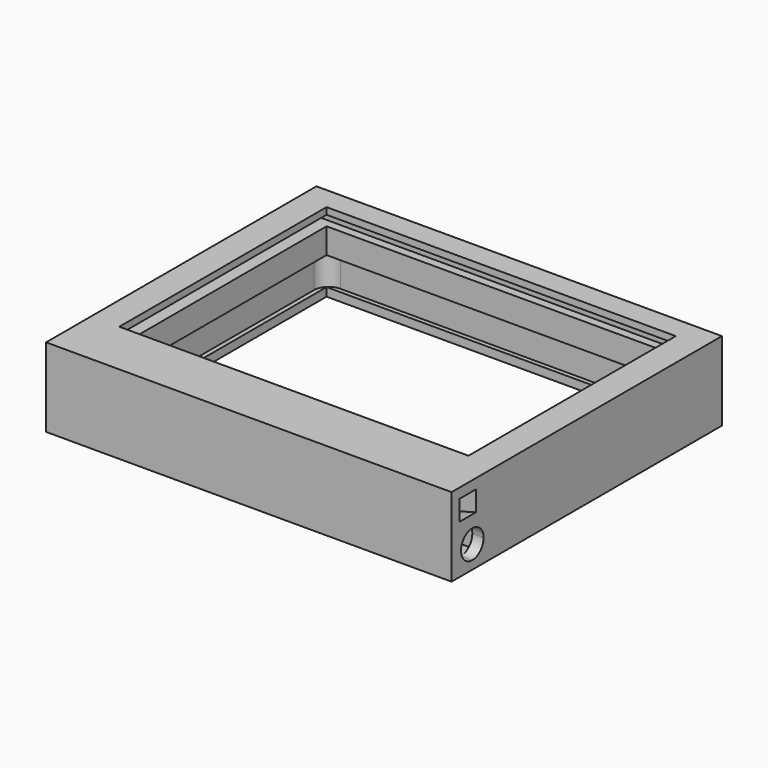
from build123d import *

# Parameters (mm, degrees)
F0_W      = 180
F0_H      = 150
F0_W_2    = 155
F0_H_2    = 115
F1_DEPTH  = 35
F2_W      = 122.5
F2_H      = 4.5
F3_DEPTH  = 170
F5_W      = 159
F5_H      = 119
F6_DEPTH  = 6.25
F7_R      = 6.5
F9_DEPTH  = 6.25
F11_DEPTH = 9
F12_R     = 25
F14_DEPTH = 5
F15_W     = 20
F15_H     = 12.5
F16_DEPTH = 4.5


with BuildPart() as f1:
    # F0 (on Top) → F1 (new body)
    with BuildSketch(Plane.XY):
        with Locations((90, 75)):
            Rectangle(F0_W, F0_H)
        with Locations((90, 82.5)):
            Rectangle(F0_W_2, F0_H_2, mode=Mode.SUBTRACT)
    extrude(amount=F1_DEPTH)

    # F2 (on face) → F3 (cut)
    with BuildSketch(Plane(origin=(0, 0, 0), x_dir=(0, -1, 0), z_dir=(-1, 0, 0))):
        with Locations((-82.5, 29.75)):
            Rectangle(F2_W, F2_H)
    extrude(amount=-F3_DEPTH, mode=Mode.SUBTRACT)

    # F5 (on offset) → F6 (cut, symmetric)
    with BuildSketch(Plane(origin=(0, 0, 10), x_dir=(1, 0, 0), z_dir=(0, 0, -1))):
        with Locations((90, -82.5)):
            Rectangle(F5_W, F5_H)
    extrude(amount=F6_DEPTH, both=True, mode=Mode.SUBTRACT)

    # F7
    f7_edges = [f1.edges().sort_by_distance(p)[0] for p in [
        (169.5, 142, 10),
        (10.5, 142, 10),
        (10.5, 23, 10),
        (169.5, 23, 10),
    ]]
    fillet(f7_edges, radius=F7_R)

    # F8 (on offset) → F9 (cut, symmetric)
    with BuildSketch(Plane(origin=(0, 0, 10), x_dir=(1, 0, 0), z_dir=(0, 0, -1))):
        with BuildLine():
            Line((32.8076118446, -4.5), (12.4038059223, -24.9038059223))
            ThreePointArc((12.4038059223, -24.9038059223), (14.5125576896, -23.4947830387), (17, -23))
            Line((17, -23), (42, -23))
            Line((42, -23), (42, -18.5))
            Line((42, -18.5), (180, -18.5))
            Line((180, -18.5), (180, -4.5))
            Line((180, -4.5), (32.8076118446, -4.5))
        make_face()
    extrude(amount=F9_DEPTH, both=True, mode=Mode.SUBTRACT)

    # F10 (on face) → F11 (cut)
    with BuildSketch(Plane(origin=(0, 4.5, 0), x_dir=(-1, 0, 0), z_dir=(0, 1, 0))):
        Polygon((-160, 16.25), (-125.2266702536, 16.25), (-32.8076118446, 16.25), (-180, 30.6089838486), (-180, 21.6089838486), align=None)
    extrude(amount=F11_DEPTH, mode=Mode.SUBTRACT)

    # F12
    f12_edges = [f1.edges().sort_by_distance(p)[0] for p in [
        (32.807612, 4.5, 10),
    ]]
    fillet(f12_edges, radius=F12_R)

    # F13 (on face) → F14 (join)
    with BuildSketch(Plane.YZ.offset(180)):
        with BuildLine():
            ThreePointArc((11.5, 16.25), (15.9194173824, 14.4194173824), (17.75, 10))
            ThreePointArc((17.75, 10), (15.9194173824, 5.5805826176), (11.5, 3.75))
            Line((11.5, 3.75), (18.5, 3.75))
            Line((18.5, 3.75), (18.5, 16.25))
            Line((18.5, 16.25), (11.5, 16.25))
        make_face()
        with BuildLine():
            ThreePointArc((11.5, 3.75), (5.25, 10), (11.5, 16.25))
            Line((11.5, 16.25), (4.5, 16.25))
            Line((4.5, 16.25), (4.5, 3.75))
            Line((4.5, 3.75), (11.5, 3.75))
        make_face()
    extrude(amount=-F14_DEPTH)

    # F15 (on face) → F16 (cut, through all)
    with BuildSketch(Plane(origin=(0, 23, 0), x_dir=(-1, 0, 0), z_dir=(0, 1, 0))):
        with Locations((-132, 10)):
            Rectangle(F15_W, F15_H)
        with Locations((-82, 10)):
            Rectangle(F15_W, F15_H)
    extrude(amount=-F16_DEPTH, mode=Mode.SUBTRACT)


solid = f1.part
